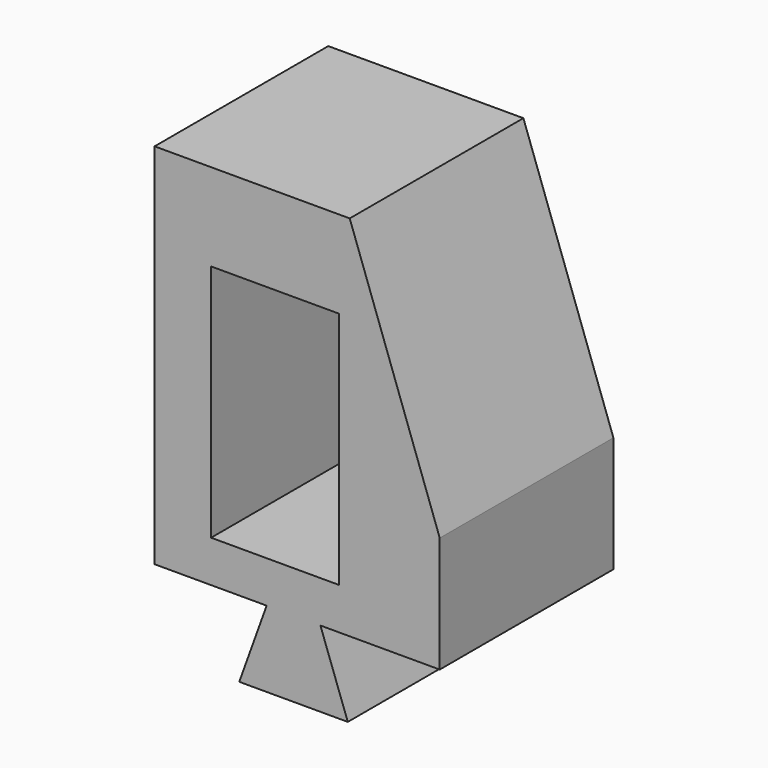
from build123d import *

# Parameters (mm, degrees)
F1_DEPTH = 10
F2_W     = 11.785513
F2_H     = 22.003018
F3_DEPTH = 20.001


with BuildPart() as f1:
    # F0 (on Front) → F1 (new body, symmetric)
    with BuildSketch(Plane.XZ):
        Polygon((-2.477636, 4.12171), (-5, -2.87829), (5, -2.87829), (2.477636, 4.12171), (13.470216, 4.12171), (13.470216, 14.792426), (5.178246, 38.018499), (-12.798677, 38.018499), (-12.798677, 4.12171), align=None)
    extrude(amount=F1_DEPTH, both=True)

    # F2 (on face) → F3 (cut, through all)
    with BuildSketch(Plane.XZ.offset(10)):
        with Locations((-1.699661, 18.969331)):
            Rectangle(F2_W, F2_H)
    extrude(amount=-F3_DEPTH, mode=Mode.SUBTRACT)


solid = f1.part
